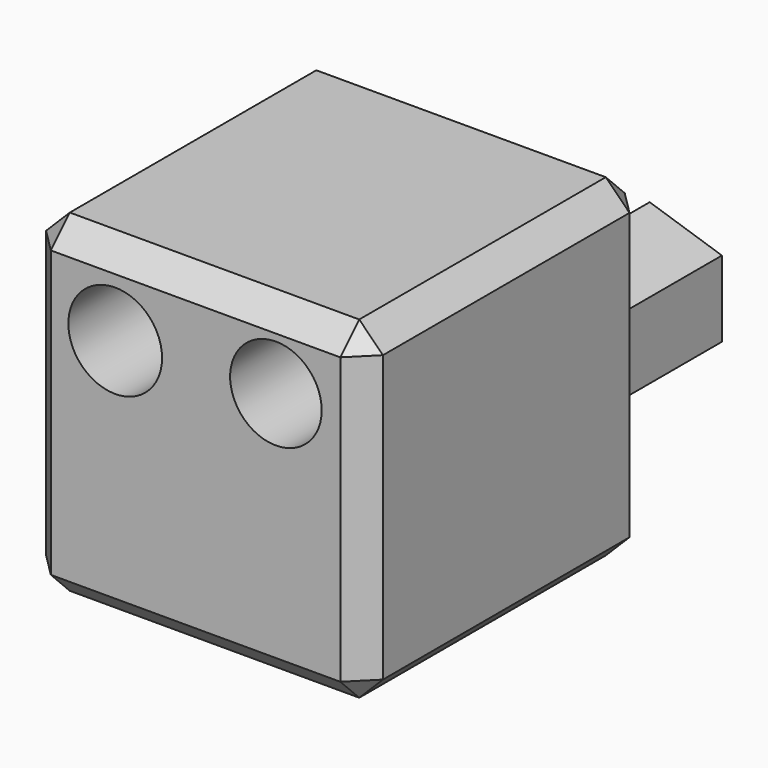
from build123d import *

# Parameters (mm, degrees)
F0_W     = 72.195024
F0_H     = 71.365238
F1_DEPTH = 76.2
F2_SIZE  = 5.08
F3_R     = 10.044016
F3_R_2   = 9.812081
F4_DEPTH = 76.2
F6_DEPTH = 50.8


with BuildPart() as f1:
    # F0 (on Front) → F1 (new body)
    with BuildSketch(Plane.XZ):
        Rectangle(F0_W, F0_H)
    extrude(amount=F1_DEPTH)

    # F2
    f2_edges = [f1.edges().sort_by_distance(p)[0] for p in [
        (0, -76.2, -35.682619),
        (36.097512, -76.2, 0),
        (0, -76.2, 35.682619),
        (-36.097512, -76.2, 0),
        (36.097512, -38.1, -35.682619),
        (36.097512, -38.1, 35.682619),
        (36.097512, 0, 0),
        (-36.097512, -38.1, 35.682619),
        (0, 0, 35.682619),
        (-36.097512, -38.1, -35.682619),
        (-36.097512, 0, 0),
        (0, 0, -35.682619),
    ]]
    chamfer(f2_edges, length=F2_SIZE)

    # F3 (on Front) → F4 (cut)
    with BuildSketch(Plane.XZ):
        with Locations((-17.218977, 18.048741)):
            Circle(F3_R)
        with Locations((17.218918, 19.29348)):
            Circle(F3_R_2)
    extrude(amount=F4_DEPTH, mode=Mode.SUBTRACT)

    # F5 (on Front) → F6 (join)
    with BuildSketch(Plane.XZ):
        Polygon((11.202648, -24.528347), (11.202648, -8.249946), (-4.279031, -3.219644), (-13.847235, -16.389146), (-4.279031, -29.558649), align=None)
    extrude(amount=-F6_DEPTH)


solid = f1.part
